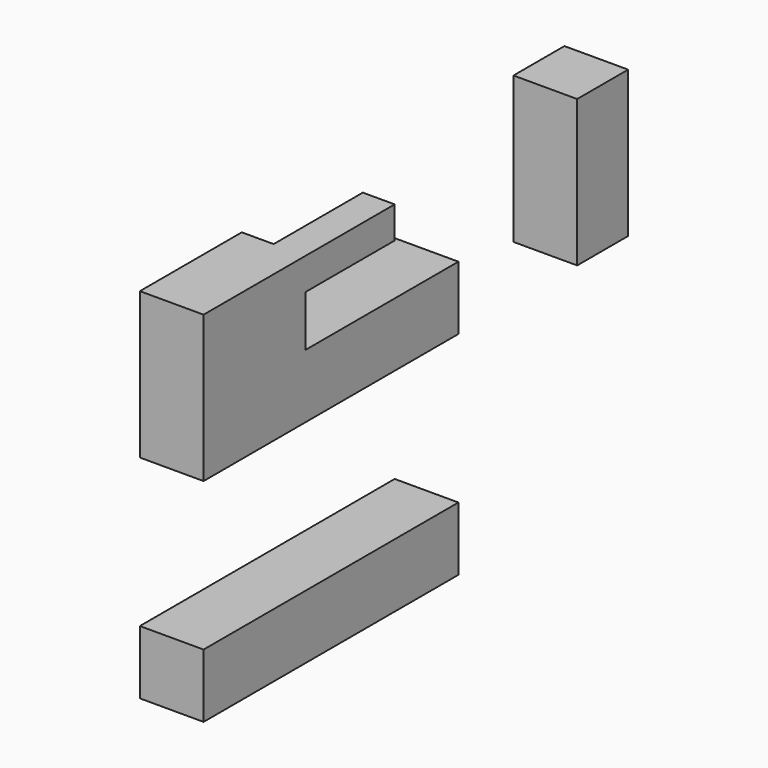
from build123d import *

# Parameters (mm, degrees)
F0_W     = 35
F0_H     = 10
F0_W_2   = 20
F0_H_2   = 46
F1_DEPTH = 20
F2_DEPTH = 10


with BuildPart() as f1:
    # F0 (on Right) → F1 (new body)
    with BuildSketch(Plane.YZ):
        Polygon((-554.145853, 98.57037), (-554.145853, 52.57037), (-454.145853, 52.57037), (-454.145853, 72.57037), (-514.145853, 72.57037), (-514.145853, 88.57037), (-514.145853, 98.57037), align=None)
        with Locations((-496.645853, 93.57037)):
            Rectangle(F0_W, F0_H)
        Polygon((-514.145853, 6.008581), (-554.145853, 6.008581), (-554.145853, -13.991419), (-479.145853, -13.991419), (-479.145853, -1.491419), (-514.145853, -1.491419), align=None)
        Polygon((-454.145853, 6.008581), (-514.145853, 6.008581), (-514.145853, -1.491419), (-479.145853, -1.491419), (-479.145853, -13.991419), (-454.145853, -13.991419), align=None)
        with Locations((-397.528996, 75.57037)):
            Rectangle(F0_W_2, F0_H_2)
    extrude(amount=F1_DEPTH)

    # F0 (on Right) → F2 (cut)
    with BuildSketch(Plane.YZ):
        with Locations((-496.645853, 93.57037)):
            Rectangle(F0_W, F0_H)
    extrude(amount=F2_DEPTH, mode=Mode.SUBTRACT)


solid = f1.part
